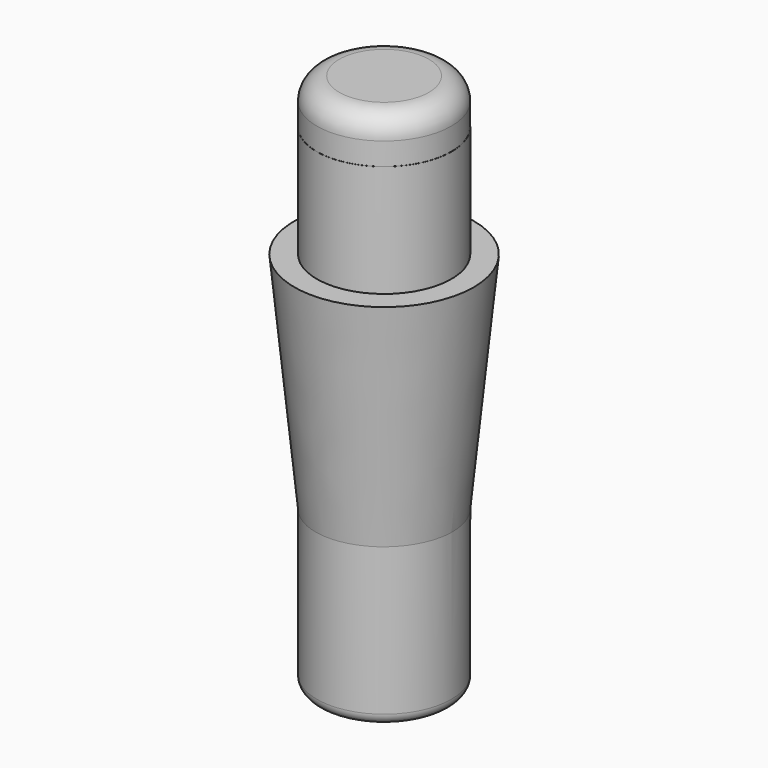
from build123d import *

# Parameters (mm, degrees)
CYLINDER_R        = 3
CYLINDER_DEPTH    = 22
FILLET002_R       = 0.5
CYLINDER001_R     = 3
CYLINDER001_DEPTH = 7
FILLET001_R       = 1


with BuildPart() as fillet002:
    # Cylinder → Cylinder (new body)
    with BuildSketch(Plane(origin=(-43.635, 0.385, 10.17), x_dir=(1, 0, 0), z_dir=(0, 0, 1))):
        Circle(CYLINDER_R)
    extrude(amount=CYLINDER_DEPTH)

    # Fillet002
    fillet002_edges = [fillet002.edges().sort_by_distance(p)[0] for p in [
        (-46.635, 0.385, 10.17),
    ]]
    fillet(fillet002_edges, radius=FILLET002_R)


with BuildPart() as cone:
    # Cone → Cone (revolve)
    with BuildSketch(Plane(origin=(-43.64, 0.39, 17.17), x_dir=(1, 0, 0), z_dir=(0, -1, 0))):
        Polygon((0, 0), (3, 0), (4, 10), (0, 10), align=None)
    revolve(axis=Axis((-43.64, 0.39, 17.17), (0, 0, 1)))


with BuildPart() as fusion001:
    # Cylinder001 → Cylinder001 (new body)
    with BuildSketch(Plane(origin=(-43.64, 0.39, 27.17), x_dir=(1, 0, 0), z_dir=(0, 0, 1))):
        Circle(CYLINDER001_R)
    extrude(amount=CYLINDER001_DEPTH)

    # Fillet001
    fillet001_edges = [fusion001.edges().sort_by_distance(p)[0] for p in [
        (-46.64, 0.39, 34.17),
    ]]
    fillet(fillet001_edges, radius=FILLET001_R)

    # Fusion001: union Fillet002, Cone
    add(fillet002.part)
    add(cone.part)


solid = fusion001.part
